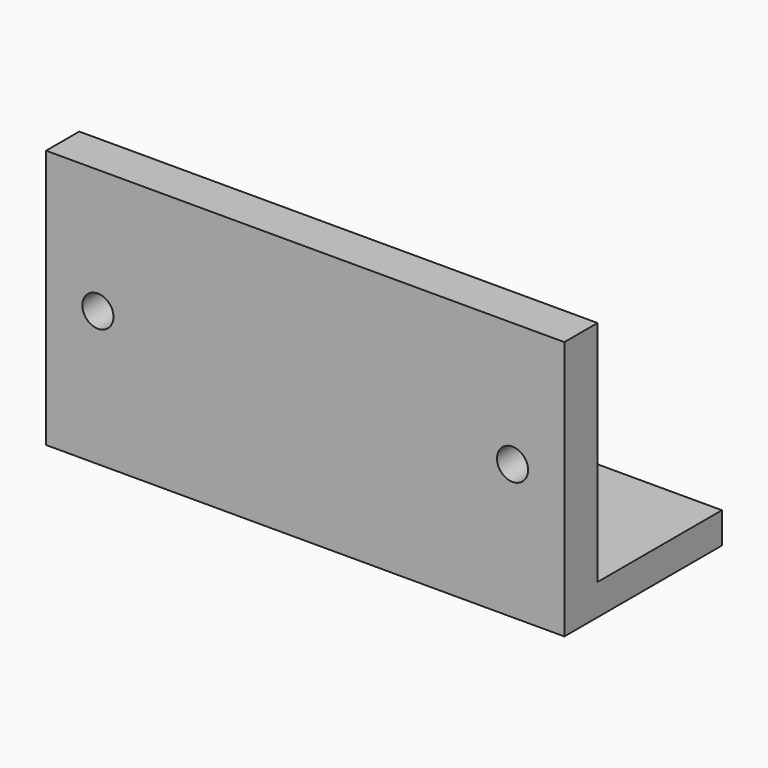
from build123d import *

# Parameters (mm, degrees)
F0_W     = 50
F0_H     = 15
F0_R     = 1.25
F1_DEPTH = 3
F0_H_2   = 4
F2_DEPTH = 25
F4_R     = 1.5
F5_DEPTH = 4.001


with BuildPart() as f1:
    # F0 (on Top) → F1 (new body)
    with BuildSketch(Plane.XY):
        with Locations((0, -0.5)):
            Rectangle(F0_W, F0_H)
        with Locations((-12.7, 0)):
            Circle(F0_R, mode=Mode.SUBTRACT)
        with BuildLine():
            ThreePointArc((-9.0826785685, 4.590535746), (-8.7611236503, 5.2384225572), (-8.0867853621, 5.5))
            Line((-8.0867853621, 5.5), (8.0867853621, 5.5))
            ThreePointArc((8.0867853621, 5.5), (8.7611236503, 5.2384225572), (9.0826785685, 4.590535746))
            Line((9.0826785685, 4.590535746), (9.9008603867, -4.409464254))
            ThreePointArc((9.9008603867, -4.409464254), (9.6433897375, -5.1743382882), (8.9049671803, -5.5))
            Line((8.9049671803, -5.5), (-8.9049671803, -5.5))
            ThreePointArc((-8.9049671803, -5.5), (-9.6433897375, -5.1743382882), (-9.9008603867, -4.409464254))
            Line((-9.9008603867, -4.409464254), (-9.0826785685, 4.590535746))
        make_face(mode=Mode.SUBTRACT)
        with Locations((12.7, 0)):
            Circle(F0_R, mode=Mode.SUBTRACT)
    extrude(amount=F1_DEPTH)

    # F0 (on Top) → F2 (join)
    with BuildSketch(Plane.XY):
        with Locations((0, -10)):
            Rectangle(F0_W, F0_H_2)
    extrude(amount=F2_DEPTH)

    # F4 (on offset) → F5 (cut, through all)
    with BuildSketch(Plane(origin=(0, -8, 0), x_dir=(-1, 0, 0), z_dir=(0, 1, 0))):
        with Locations((-20, 13)):
            Circle(F4_R)
        with Locations((20, 13)):
            Circle(F4_R)
    extrude(amount=-F5_DEPTH, mode=Mode.SUBTRACT)


solid = f1.part
